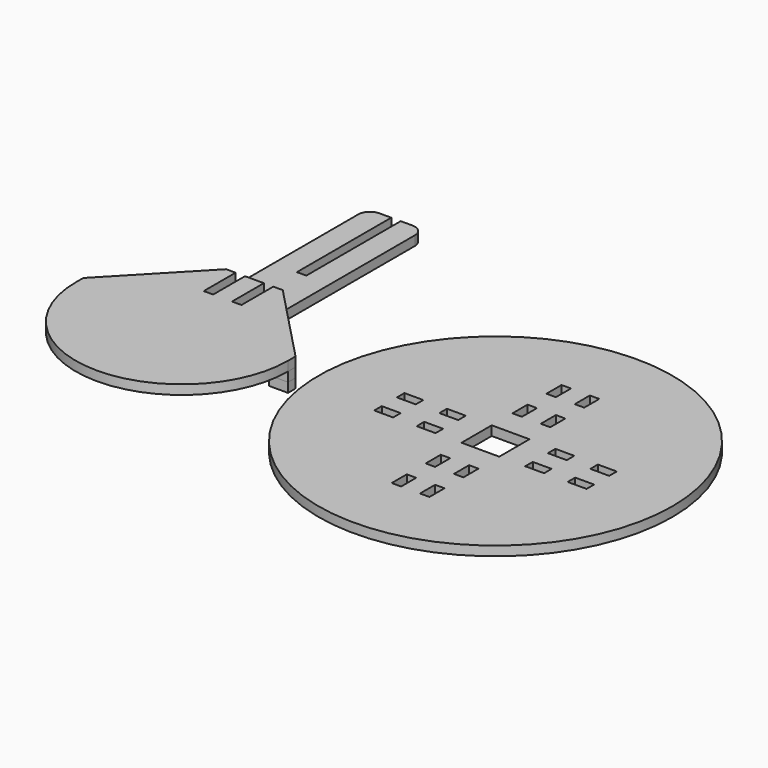
from build123d import *

# Parameters (mm, degrees)
F0_W     = 8
F0_H     = 4
F0_W_2   = 4
F0_H_2   = 17.5864007324
F0_H_3   = 16.8719124049
F1_DEPTH = 4
F0_R     = 75
F0_H_4   = 8
F2_DEPTH = 4
F4_DEPTH = 4


with BuildPart() as f1:
    # F0 (on Top) → F1 (new body)
    with BuildSketch(Plane.XY):
        with Locations((-170.7501623631, -2)):
            Rectangle(F0_W, F0_H)
        Polygon((-137.7501623631, 17.5864007324), (-137.7501623631, 34.4583131373), (-141.7501623631, 34.4583131373), (-174.7501623631, 0), (-166.7501623631, 0), (-156.7501623631, 0), (-148.7501623631, 0), (-137.7501623631, 0), align=None)
        with Locations((-152.7501623631, -2)):
            Rectangle(F0_W, F0_H)
        with Locations((-135.7501623631, 8.7932003662)):
            Rectangle(F0_W_2, F0_H_2)
        with Locations((-131.7501623631, 8.7932003662)):
            Rectangle(F0_W_2, F0_H_2)
        with Locations((-131.7501623631, 26.0223569348)):
            Rectangle(F0_W_2, F0_H_3)
        with Locations((-127.7501623631, 26.0223569348)):
            Rectangle(F0_W_2, F0_H_3)
        with Locations((-127.7501623631, 8.7932003662)):
            Rectangle(F0_W_2, F0_H_2)
        with Locations((-123.7501623631, 8.7932003662)):
            Rectangle(F0_W_2, F0_H_2)
        Polygon((-92.7501623631, 0), (-84.7501623631, 0), (-117.7501623631, 34.4583131373), (-121.7501623631, 34.4583131373), (-121.7501623631, 17.5864007324), (-121.7501623631, 0), (-110.7501623631, 0), (-102.7501623631, 0), align=None)
        with Locations((-106.7501623631, -2)):
            Rectangle(F0_W, F0_H)
        with Locations((-88.7501623631, -2)):
            Rectangle(F0_W, F0_H)
        with Locations((-135.7501623631, -2)):
            Rectangle(F0_W_2, F0_H)
        with Locations((-131.7501623631, -2)):
            Rectangle(F0_W_2, F0_H)
        with Locations((-127.7501623631, -2)):
            Rectangle(F0_W_2, F0_H)
        with Locations((-123.7501623631, -2)):
            Rectangle(F0_W_2, F0_H)
    extrude(amount=F1_DEPTH)


with BuildPart() as f1b:
    # F0 (on Top) → F1, piece 2 (new body)
    with BuildSketch(Plane.XY):
        Circle(F0_R)
        with Locations((-6, -41)):
            Rectangle(F0_W_2, F0_H_4, mode=Mode.SUBTRACT)
        with Locations((6, -41)):
            Rectangle(F0_W_2, F0_H_4, mode=Mode.SUBTRACT)
        with Locations((-41, -6)):
            Rectangle(F0_W, F0_H, mode=Mode.SUBTRACT)
        with Locations((-23, -6)):
            Rectangle(F0_W, F0_H, mode=Mode.SUBTRACT)
        with Locations((-6, -23)):
            Rectangle(F0_W_2, F0_H_4, mode=Mode.SUBTRACT)
        with Locations((6, -23)):
            Rectangle(F0_W_2, F0_H_4, mode=Mode.SUBTRACT)
        with Locations((-41, 6)):
            Rectangle(F0_W, F0_H, mode=Mode.SUBTRACT)
        with Locations((-23, 6)):
            Rectangle(F0_W, F0_H, mode=Mode.SUBTRACT)
        Polygon((-8, -4), (-8, 4), (-8, 8), (8, 8), (8, 4), (8, -4), (8, -8), (-8, -8), align=None, mode=Mode.SUBTRACT)
        with Locations((23, -6)):
            Rectangle(F0_W, F0_H, mode=Mode.SUBTRACT)
        with Locations((41, -6)):
            Rectangle(F0_W, F0_H, mode=Mode.SUBTRACT)
        with Locations((23, 6)):
            Rectangle(F0_W, F0_H, mode=Mode.SUBTRACT)
        with Locations((41, 6)):
            Rectangle(F0_W, F0_H, mode=Mode.SUBTRACT)
        with Locations((-6, 23)):
            Rectangle(F0_W_2, F0_H_4, mode=Mode.SUBTRACT)
        with Locations((6, 23)):
            Rectangle(F0_W_2, F0_H_4, mode=Mode.SUBTRACT)
        with Locations((-6, 41)):
            Rectangle(F0_W_2, F0_H_4, mode=Mode.SUBTRACT)
        with Locations((6, 41)):
            Rectangle(F0_W_2, F0_H_4, mode=Mode.SUBTRACT)
    extrude(amount=F1_DEPTH)


with BuildPart() as f2:
    # F0 (on Top) → F2 (new body)
    with BuildSketch(Plane.XY):
        with Locations((-170.7501623631, -2)):
            Rectangle(F0_W, F0_H)
        Polygon((-137.7501623631, 17.5864007324), (-137.7501623631, 34.4583131373), (-141.7501623631, 34.4583131373), (-174.7501623631, 0), (-166.7501623631, 0), (-156.7501623631, 0), (-148.7501623631, 0), (-137.7501623631, 0), align=None)
        with Locations((-152.7501623631, -2)):
            Rectangle(F0_W, F0_H)
        with Locations((-131.7501623631, 26.0223569348)):
            Rectangle(F0_W_2, F0_H_3)
        with Locations((-127.7501623631, 26.0223569348)):
            Rectangle(F0_W_2, F0_H_3)
        with Locations((-127.7501623631, 8.7932003662)):
            Rectangle(F0_W_2, F0_H_2)
        with Locations((-131.7501623631, 8.7932003662)):
            Rectangle(F0_W_2, F0_H_2)
        with Locations((-131.7501623631, -2)):
            Rectangle(F0_W_2, F0_H)
        with Locations((-127.7501623631, -2)):
            Rectangle(F0_W_2, F0_H)
        with Locations((-135.7501623631, 26.0223569348)):
            Rectangle(F0_W_2, F0_H_3)
        with Locations((-123.7501623631, 26.0223569348)):
            Rectangle(F0_W_2, F0_H_3)
        Polygon((-92.7501623631, 0), (-84.7501623631, 0), (-117.7501623631, 34.4583131373), (-121.7501623631, 34.4583131373), (-121.7501623631, 17.5864007324), (-121.7501623631, 0), (-110.7501623631, 0), (-102.7501623631, 0), align=None)
        with Locations((-106.7501623631, -2)):
            Rectangle(F0_W, F0_H)
        with Locations((-88.7501623631, -2)):
            Rectangle(F0_W, F0_H)
        with Locations((-123.7501623631, 26.0223569348)):
            Rectangle(F0_W_2, F0_H_3)
        with BuildLine():
            Line((-121.7501623631, 34.4583131373), (-117.7501623631, 34.4583131373))
            Line((-117.7501623631, 34.4583131373), (-117.7501623631, 104.4583131373))
            ThreePointArc((-117.7501623631, 104.4583131373), (-119.2146284571, 107.9938470432), (-122.7501623631, 109.4583131373))
            Line((-122.7501623631, 109.4583131373), (-127.7501623631, 109.4583131373))
            Line((-127.7501623631, 109.4583131373), (-127.7501623631, 59.4583131373))
            Line((-127.7501623631, 59.4583131373), (-129.7501623631, 59.4583131373))
            Line((-129.7501623631, 59.4583131373), (-131.7501623631, 59.4583131373))
            Line((-131.7501623631, 59.4583131373), (-131.7501623631, 109.4583131373))
            Line((-131.7501623631, 109.4583131373), (-136.7501623631, 109.4583131373))
            ThreePointArc((-136.7501623631, 109.4583131373), (-140.285696269, 107.9938470432), (-141.7501623631, 104.4583131373))
            Line((-141.7501623631, 104.4583131373), (-141.7501623631, 34.4583131373))
            Line((-141.7501623631, 34.4583131373), (-137.7501623631, 34.4583131373))
            Line((-137.7501623631, 34.4583131373), (-133.7501623631, 34.4583131373))
            Line((-133.7501623631, 34.4583131373), (-129.7501623631, 34.4583131373))
            Line((-129.7501623631, 34.4583131373), (-125.7501623631, 34.4583131373))
            Line((-125.7501623631, 34.4583131373), (-121.7501623631, 34.4583131373))
        make_face()
    extrude(amount=-F2_DEPTH)


with BuildPart() as f4:
    # F3 (on face) → F4 (new body)
    with BuildSketch(Plane.XY.offset(4)):
        with BuildLine():
            Line((-166.7501623631, -4), (-174.7501623631, -4))
            ThreePointArc((-174.7501623631, -4), (-129.7501623631, -49), (-84.7501623631, -4))
            Line((-84.7501623631, -4), (-92.7501623631, -4))
            Line((-92.7501623631, -4), (-92.7501623631, 0))
            Line((-92.7501623631, 0), (-102.7501623631, 0))
            Line((-102.7501623631, 0), (-102.7501623631, -4))
            Line((-102.7501623631, -4), (-110.7501623631, -4))
            Line((-110.7501623631, -4), (-110.7501623631, 0))
            Line((-110.7501623631, 0), (-121.7501623631, 0))
            Line((-121.7501623631, 0), (-121.7501623631, -4))
            Line((-121.7501623631, -4), (-137.7501623631, -4))
            Line((-137.7501623631, -4), (-137.7501623631, 0))
            Line((-137.7501623631, 0), (-148.7501623631, 0))
            Line((-148.7501623631, 0), (-148.7501623631, -4))
            Line((-148.7501623631, -4), (-156.7501623631, -4))
            Line((-156.7501623631, -4), (-156.7501623631, 0))
            Line((-156.7501623631, 0), (-166.7501623631, 0))
            Line((-166.7501623631, 0), (-166.7501623631, -4))
        make_face()
        Polygon((-174.7501623631, 0), (-174.7501623631, -4), (-166.7501623631, -4), (-166.7501623631, 0), (-156.7501623631, 0), (-156.7501623631, -4), (-148.7501623631, -4), (-148.7501623631, 0), (-137.7501623631, 0), (-137.7501623631, -4), (-121.7501623631, -4), (-121.7501623631, 0), (-110.7501623631, 0), (-110.7501623631, -4), (-102.7501623631, -4), (-102.7501623631, 0), (-92.7501623631, 0), (-92.7501623631, -4), (-84.7501623631, -4), (-84.7501623631, 0), (-117.7501623631, 34.4583131373), (-121.7501623631, 34.4583131373), (-121.7501623631, 17.5864007324), (-125.7501623631, 17.5864007324), (-125.7501623631, 34.4583131373), (-133.7501623631, 34.4583131373), (-133.7501623631, 17.5864007324), (-137.7501623631, 17.5864007324), (-137.7501623631, 34.4583131373), (-141.7501623631, 34.4583131373), align=None)
    extrude(amount=F4_DEPTH)


solid = Compound([f1.part, f1b.part, f2.part, f4.part])
